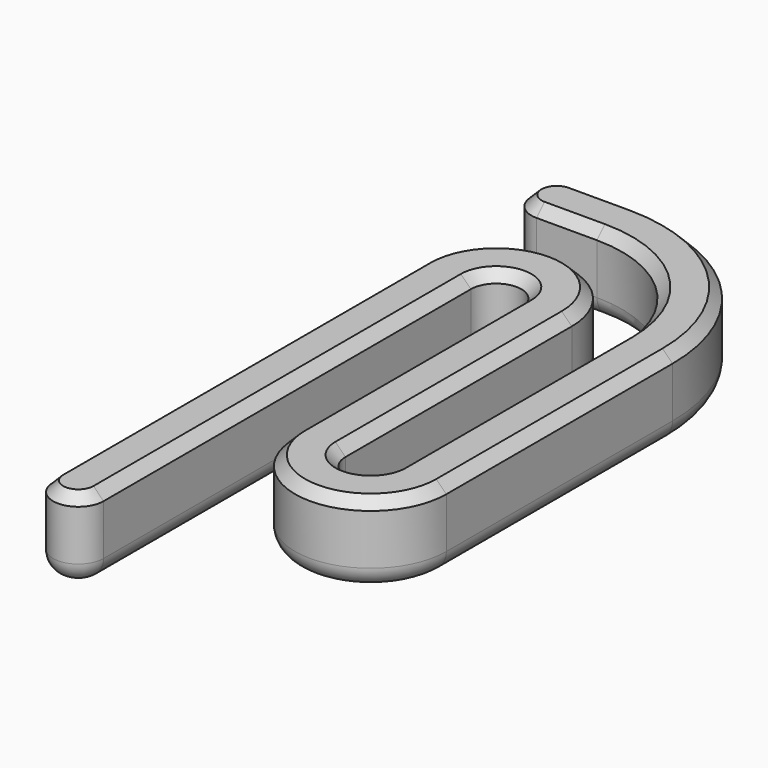
from build123d import *

# Parameters (mm, degrees)
F1_DEPTH = 8
F2_R     = 2
F3_SIZE  = 1


with BuildPart() as f1:
    # F0 (on Top) → F1 (new body)
    with BuildSketch(Plane.XY):
        with BuildLine():
            ThreePointArc((-20.181158, -13.582748), (-18.804883, -9.252621), (-15.181158, -6.51168))
            Line((-15.181158, -6.51168), (-15.181158, 14.463018))
            ThreePointArc((-15.181158, 14.463018), (-22.681158, 21.963018), (-30.181158, 14.463018))
            Line((-30.181158, 14.463018), (-30.181158, -16.082748))
            Line((-30.181158, -16.082748), (-30.181158, -31.082748))
            ThreePointArc((-30.181158, -31.082748), (-27.681158, -33.582748), (-25.181158, -31.082748))
            Line((-25.181158, -31.082748), (-25.181158, -16.082748))
            Line((-25.181158, -16.082748), (-25.181158, 14.463018))
            ThreePointArc((-25.181158, 14.463018), (-22.681158, 16.963018), (-20.181158, 14.463018))
            Line((-20.181158, 14.463018), (-20.181158, -13.582748))
        make_face()
        with BuildLine():
            ThreePointArc((-20.181158, -13.582748), (-18.804883, -9.252621), (-15.181158, -6.51168))
            Line((-15.181158, -6.51168), (-15.181158, 14.463018))
            ThreePointArc((-15.181158, 14.463018), (-22.681158, 21.963018), (-30.181158, 14.463018))
            Line((-30.181158, 14.463018), (-30.181158, -16.082748))
            Line((-30.181158, -16.082748), (-30.181158, -31.082748))
            ThreePointArc((-30.181158, -31.082748), (-27.681158, -33.582748), (-25.181158, -31.082748))
            Line((-25.181158, -31.082748), (-25.181158, -16.082748))
            Line((-25.181158, -16.082748), (-25.181158, 14.463018))
            ThreePointArc((-25.181158, 14.463018), (-22.681158, 16.963018), (-20.181158, 14.463018))
            Line((-20.181158, 14.463018), (-20.181158, -13.582748))
        make_face()
        with BuildLine():
            ThreePointArc((-20.181158, -13.582748), (-18.804883, -9.252621), (-15.181158, -6.51168))
            Line((-15.181158, -6.51168), (-15.181158, 14.463018))
            ThreePointArc((-15.181158, 14.463018), (-22.681158, 21.963018), (-30.181158, 14.463018))
            Line((-30.181158, 14.463018), (-30.181158, -16.082748))
            Line((-30.181158, -16.082748), (-30.181158, -31.082748))
            ThreePointArc((-30.181158, -31.082748), (-27.681158, -33.582748), (-25.181158, -31.082748))
            Line((-25.181158, -31.082748), (-25.181158, -16.082748))
            Line((-25.181158, -16.082748), (-25.181158, 14.463018))
            ThreePointArc((-25.181158, 14.463018), (-22.681158, 16.963018), (-20.181158, 14.463018))
            Line((-20.181158, 14.463018), (-20.181158, -13.582748))
        make_face()
        with BuildLine():
            Line((-10.181158, 14.463018), (-10.181158, -6.51168))
            ThreePointArc((-10.181158, -6.51168), (-6.557434, -9.252621), (-5.181158, -13.582748))
            Line((-5.181158, -13.582748), (-5.181158, 14.463018))
            ThreePointArc((-5.181158, 14.463018), (-10.306789, 26.837386), (-22.681158, 31.963018))
            Line((-22.681158, 31.963018), (-28.681158, 31.963018))
            ThreePointArc((-28.681158, 31.963018), (-31.181158, 29.463018), (-28.681158, 26.963018))
            Line((-28.681158, 26.963018), (-22.681158, 26.963018))
            ThreePointArc((-22.681158, 26.963018), (-13.842323, 23.301852), (-10.181158, 14.463018))
        make_face()
        with BuildLine():
            ThreePointArc((-10.181158, -13.582748), (-12.681158, -16.082748), (-15.181158, -13.582748))
            Line((-15.181158, -13.582748), (-15.181158, -6.51168))
            ThreePointArc((-15.181158, -6.51168), (-18.804883, -9.252621), (-20.181158, -13.582748))
            ThreePointArc((-20.181158, -13.582748), (-12.681158, -21.082748), (-5.181158, -13.582748))
            ThreePointArc((-5.181158, -13.582748), (-6.557434, -9.252621), (-10.181158, -6.51168))
            Line((-10.181158, -6.51168), (-10.181158, -13.582748))
        make_face()
    extrude(amount=F1_DEPTH)

    # F2
    f2_edges = [f1.edges().sort_by_distance(p)[0] for p in [
        (-5.181158, 0.440135, 0),
    ]]
    fillet(f2_edges, radius=F2_R)

    # F3
    f3_edges = [f1.edges().sort_by_distance(p)[0] for p in [
        (-20.181158, 0.440135, 8),
    ]]
    chamfer(f3_edges, length=F3_SIZE)


solid = f1.part
